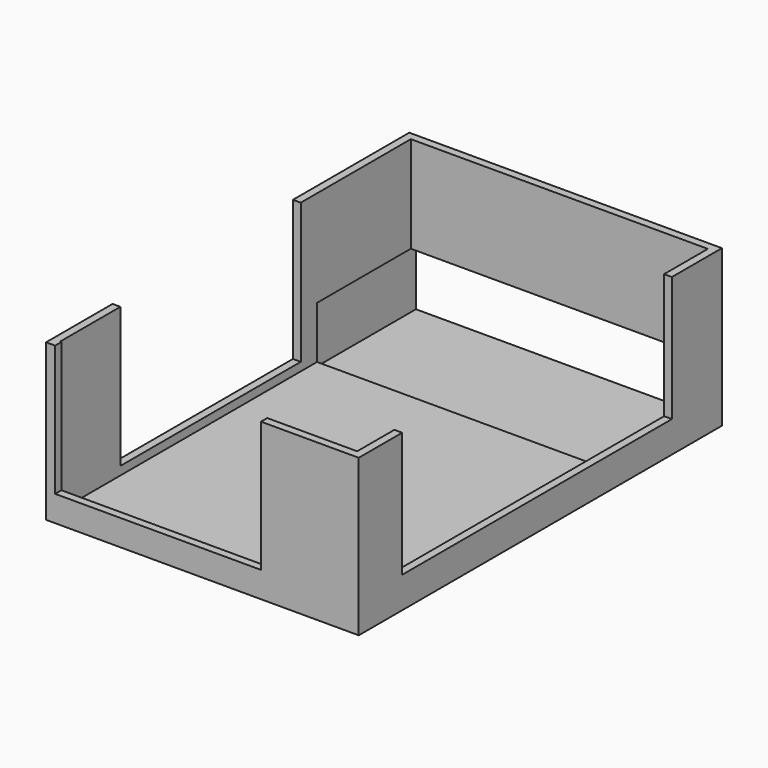
from build123d import *

# Parameters (mm, degrees)
F0_W      = 63.5
F0_H      = 92.202
F1_DEPTH  = 31.75
F2_T      = -1.5875
F3_W      = 68.475886
F3_H      = 25.4
F4_DEPTH  = 25.4
F5_W      = 41.793442
F5_H      = 26.501633
F6_DEPTH  = 25.4
F7_W      = 45.800777
F7_H      = 28.45159
F8_DEPTH  = 25.4
F9_W      = 56.269303
F9_H      = 11.544435
F10_DEPTH = 25.4


with BuildPart() as f1:
    # F0 (on Top) → F1 (new body)
    with BuildSketch(Plane.XY):
        with Locations((2.364983, -4.317552)):
            Rectangle(F0_W, F0_H)
    extrude(amount=F1_DEPTH)

    # F2
    f2_openings = [f1.faces().sort_by_distance(p)[0] for p in [
        (2.364983, -4.317552, 31.75),
    ]]
    offset(amount=F2_T, openings=f2_openings)

    # F3 (on face) → F4 (cut)
    with BuildSketch(Plane.YZ.offset(34.114983)):
        with Locations((-5.154495, 19.05)):
            Rectangle(F3_W, F3_H)
    extrude(amount=-F4_DEPTH, mode=Mode.SUBTRACT)

    # F5 (on face) → F6 (cut)
    with BuildSketch(Plane.XZ.offset(50.418552)):
        with Locations((-6.639066, 18.499184)):
            Rectangle(F5_W, F5_H)
    extrude(amount=-F6_DEPTH, mode=Mode.SUBTRACT)

    # F7 (on face) → F8 (cut)
    with BuildSketch(Plane(origin=(-29.385017, 0, 0), x_dir=(0, -1, 0), z_dir=(-1, 0, 0))):
        with Locations((10.649152, 17.524205)):
            Rectangle(F7_W, F7_H)
    extrude(amount=-F8_DEPTH, mode=Mode.SUBTRACT)

    # F9 (on face) → F10 (cut)
    with BuildSketch(Plane(origin=(0, 41.783448, 0), x_dir=(-1, 0, 0), z_dir=(0, 1, 0))):
        with Locations((-0.107144, 6.392072)):
            Rectangle(F9_W, F9_H)
    extrude(amount=-F10_DEPTH, mode=Mode.SUBTRACT)


solid = f1.part
